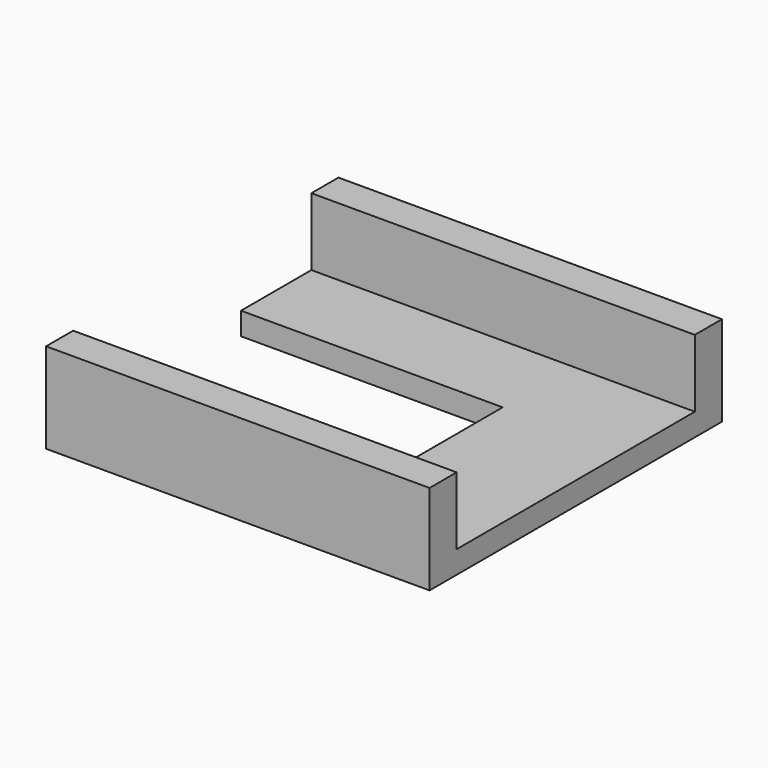
from build123d import *

# Parameters (mm, degrees)
F0_W     = 540
F0_H     = 540
F1_DEPTH = 100
F0_W_2   = 1700
F0_H_2   = 150
F2_DEPTH = 400


with BuildPart() as f1:
    # F0 (on Top) → F1 (new body)
    with BuildSketch(Plane.XY):
        Polygon((-1700, 150), (0, 150), (0, 540), (-540, 540), (-1700, 540), align=None)
        with Locations((-270, 810)):
            Rectangle(F0_W, F0_H)
        Polygon((-540, 1080), (0, 1080), (0, 1470), (-1700, 1470), (-1700, 1080), align=None)
    extrude(amount=F1_DEPTH)

    # F0 (on Top) → F2 (join)
    with BuildSketch(Plane.XY):
        with Locations((-850, 75)):
            Rectangle(F0_W_2, F0_H_2)
        with Locations((-850, 1545)):
            Rectangle(F0_W_2, F0_H_2)
    extrude(amount=F2_DEPTH)


solid = f1.part
